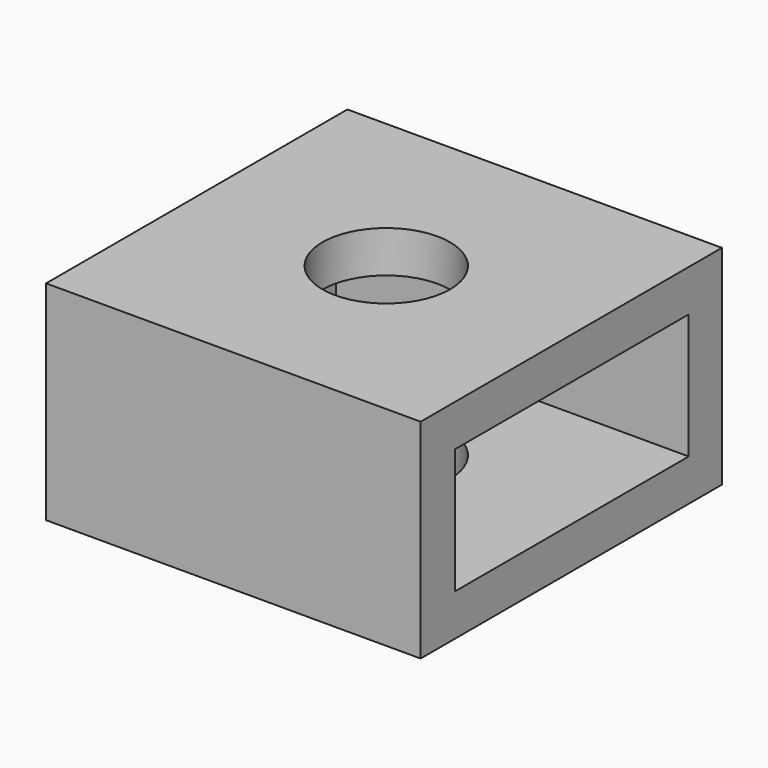
from build123d import *

# Parameters (mm, degrees)
BOX001_W     = 9.5
BOX001_H     = 7
BOX001_DEPTH = 3
SKETCH_W     = 8.981727
SKETCH_H     = 9.030207
SKETCH_R     = 1.530969
PAD_DEPTH    = 5


with BuildPart() as body044:
    # Box001 → Box001 (new body)
    with BuildSketch(Plane.XY):
        with Locations((4.75, 3.5)):
            Rectangle(BOX001_W, BOX001_H)
    extrude(amount=BOX001_DEPTH)


with BuildPart() as body044_1:
    # Body044 placement: moved
    add(body044.part.moved(Location((-4, -3.5, 1))))


with BuildPart() as cut005:
    # Sketch → Pad (new body)
    with BuildSketch(Plane.XY):
        with Locations((-0.03812, -0.019445)):
            Rectangle(SKETCH_W, SKETCH_H)
        Circle(SKETCH_R, mode=Mode.SUBTRACT)
    extrude(amount=PAD_DEPTH)

    # Cut005: cut Body044
    add(body044_1.part, mode=Mode.SUBTRACT)


with BuildPart() as cut005_1:
    # Cut005 placement: moved
    add(cut005.part.moved(Location((0, 0.025, 0))))


solid = cut005_1.part
